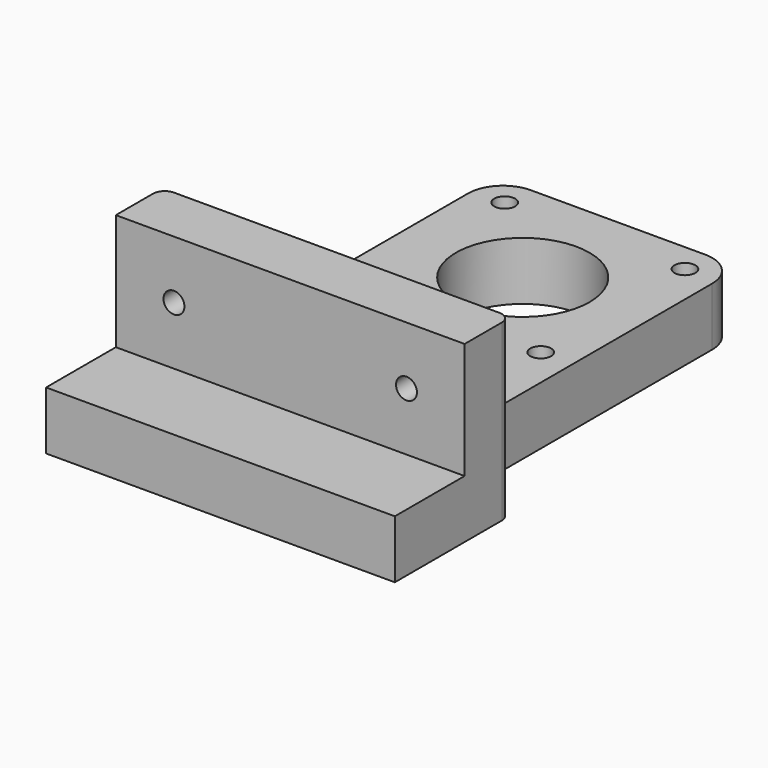
from build123d import *

# Parameters (mm, degrees)
SKETCH_R        = 1.8
SKETCH_R_2      = 11.5
PAD_DEPTH       = 10
SKETCH001_W     = 60
SKETCH001_H     = 10
PAD001_DEPTH    = 20
SKETCH002_R     = 3
POCKET_DEPTH    = 5
SKETCH003_R     = 1.8
POCKET001_DEPTH = 5
SKETCH004_W     = 60
SKETCH004_H     = 10
PAD002_DEPTH    = 15
FILLET_R        = 6
FILLET001_R     = 2


with BuildPart() as part:
    # Sketch → Pad (new body)
    with BuildSketch(Plane.XY):
        Polygon((21, 10), (21, 70.493559), (-21, 70.493559), (-21, 10), (-30, 10), (-30, 0), (30, 0), (30, 10), align=None)
        with Locations((15.5, 34.5)):
            Circle(SKETCH_R, mode=Mode.SUBTRACT)
        with Locations((-15.5, 34.5)):
            Circle(SKETCH_R, mode=Mode.SUBTRACT)
        with Locations((0, 50)):
            Circle(SKETCH_R_2, mode=Mode.SUBTRACT)
        with Locations((15.5, 65.5)):
            Circle(SKETCH_R, mode=Mode.SUBTRACT)
        with Locations((-15.5, 65.5)):
            Circle(SKETCH_R, mode=Mode.SUBTRACT)
    extrude(amount=PAD_DEPTH)

    # Sketch001 (on Face15 of Pad) → Pad001 (join)
    with BuildSketch(Plane.XY.offset(10)):
        with Locations((0, 5)):
            Rectangle(SKETCH001_W, SKETCH001_H)
    extrude(amount=PAD001_DEPTH)

    # Sketch002 (on Face6 of Pad001) → Pocket (cut)
    with BuildSketch(Plane(origin=(0, 10, 0), x_dir=(-1, 0, 0), z_dir=(0, 1, 0))):
        with Locations((-20, 20)):
            Circle(SKETCH002_R)
        with Locations((20, 20)):
            Circle(SKETCH002_R)
    extrude(amount=-POCKET_DEPTH, mode=Mode.SUBTRACT)

    # Sketch003 (on Face23 of Pocket) → Pocket001 (cut)
    with BuildSketch(Plane(origin=(0, 5, 0), x_dir=(-1, 0, 0), z_dir=(0, 1, 0))):
        with Locations((-20, 20)):
            Circle(SKETCH003_R)
        with Locations((20, 20)):
            Circle(SKETCH003_R)
    extrude(amount=-POCKET001_DEPTH, mode=Mode.SUBTRACT)

    # Sketch004 (on Face11 of Pocket001) → Pad002 (join)
    with BuildSketch(Plane.XZ):
        with Locations((0, 5)):
            Rectangle(SKETCH004_W, SKETCH004_H)
    extrude(amount=PAD002_DEPTH)

    # Fillet
    fillet_edges = [part.edges().sort_by_distance(p)[0] for p in [
        (-21, 70.493559, 5),
        (21, 70.493559, 5),
        (-21, 10, 5),
        (21, 10, 5),
    ]]
    fillet(fillet_edges, radius=FILLET_R)

    # Fillet001
    fillet001_edges = [part.edges().sort_by_distance(p)[0] for p in [
        (30, 10, 20),
        (-30, 10, 20),
    ]]
    fillet(fillet001_edges, radius=FILLET001_R)


solid = part.part
